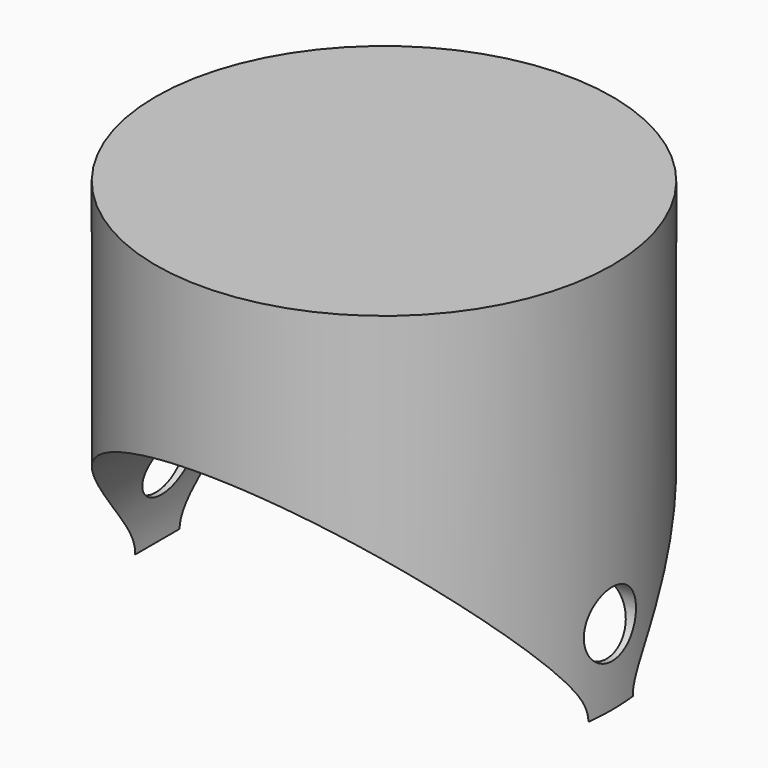
from build123d import *

# Parameters (mm, degrees)
F0_R          = 44.45
F0_R_2        = 38.1
F1_DEPTH      = 25.4
F2_DEPTH      = 50.8
F3_R          = 44.120114
F4_DEPTH      = 60.452
F4_DEPTH_BACK = 62.738
F5_R          = 6.35
F6_DEPTH      = 56.134
F6_DEPTH_BACK = 57.658


with BuildPart() as f1:
    # F0 (on Top) → F1 (new body)
    with BuildSketch(Plane.XY):
        Circle(F0_R)
        Circle(F0_R_2, mode=Mode.SUBTRACT)
        Circle(F0_R_2)
    extrude(amount=F1_DEPTH)

    # F0 (on Top) → F2 (join)
    with BuildSketch(Plane.XY):
        Circle(F0_R)
        Circle(F0_R_2, mode=Mode.SUBTRACT)
    extrude(amount=-F2_DEPTH)

    # F3 (on Front) → F4 (cut, two sides)
    with BuildSketch(Plane.XZ) as f4_sk:
        with Locations((0, -50.773263)):
            Circle(F3_R)
    extrude(amount=F4_DEPTH, mode=Mode.SUBTRACT)
    extrude(f4_sk.sketch, amount=-F4_DEPTH_BACK, mode=Mode.SUBTRACT)

    # F5 (on Right) → F6 (cut, two sides)
    with BuildSketch(Plane.YZ) as f6_sk:
        with Locations((0, -36.096215)):
            Circle(F5_R)
    extrude(amount=F6_DEPTH, mode=Mode.SUBTRACT)
    extrude(f6_sk.sketch, amount=-F6_DEPTH_BACK, mode=Mode.SUBTRACT)


solid = f1.part
